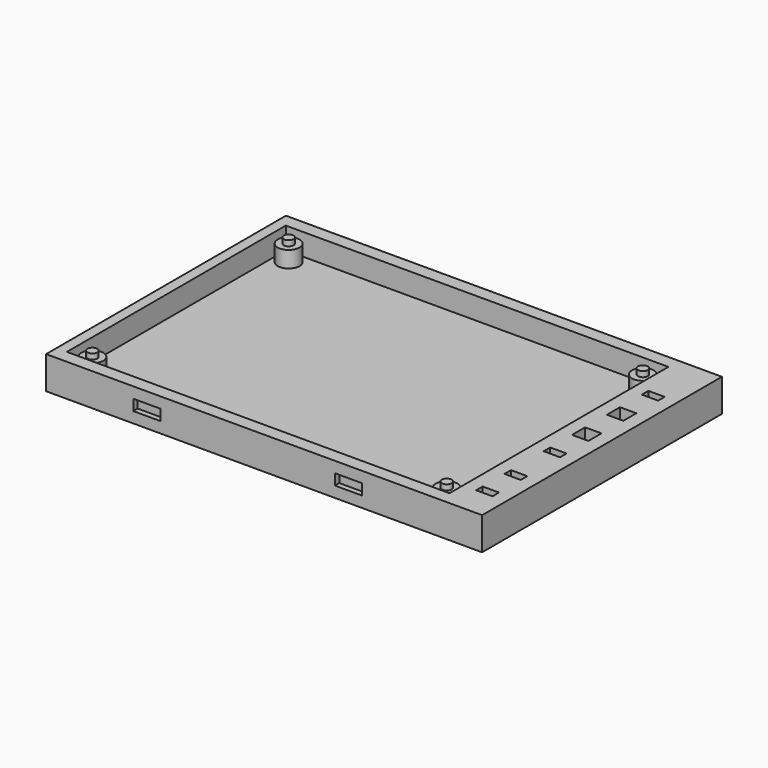
from build123d import *

# Parameters (mm, degrees)
SKETCH_W        = 80
SKETCH_H        = 55
PAD_DEPTH       = 6
SKETCH001_W     = 70.2
SKETCH001_H     = 50.2
POCKET_DEPTH    = 4
SKETCH002_R     = 2
PAD001_DEPTH    = 3
SKETCH003_R     = 0.9
PAD002_DEPTH    = 1
SKETCH004_W     = 3
SKETCH004_H     = 1.5
SKETCH004_H_2   = 3
POCKET001_DEPTH = 6
SKETCH005_W     = 3
SKETCH005_H     = 5
SKETCH005_H_2   = 21
POCKET002_DEPTH = 3
SKETCH006_W     = 5
SKETCH006_H     = 2
POCKET003_DEPTH = 1
SKETCH007_W     = 5
SKETCH007_H     = 2
POCKET004_DEPTH = 1


with BuildPart() as part:
    # Sketch → Pad (new body)
    with BuildSketch(Plane.XY):
        with Locations((3, 0)):
            Rectangle(SKETCH_W, SKETCH_H)
    extrude(amount=PAD_DEPTH)

    # Sketch001 (on Face6 of Pad) → Pocket (cut)
    with BuildSketch(Plane.XY.offset(6)):
        Rectangle(SKETCH001_W, SKETCH001_H)
    extrude(amount=-POCKET_DEPTH, mode=Mode.SUBTRACT)

    # Sketch002 (on Face11 of Pocket) → Pad001 (join)
    with BuildSketch(Plane.XY.offset(2)):
        with Locations((-32.5, 22.5)):
            Circle(SKETCH002_R)
        with Locations((32.5, 22.5)):
            Circle(SKETCH002_R)
        with Locations((-32.5, -22.5)):
            Circle(SKETCH002_R)
        with Locations((32.5, -22.5)):
            Circle(SKETCH002_R)
    extrude(amount=PAD001_DEPTH)

    # Sketch003 (on Face19 of Pad001) → Pad002 (join)
    with BuildSketch(Plane.XY.offset(5)):
        with Locations((-32.5, 22.5)):
            Circle(SKETCH003_R)
        with Locations((32.5, 22.5)):
            Circle(SKETCH003_R)
        with Locations((-32.5, -22.5)):
            Circle(SKETCH003_R)
        with Locations((32.5, -22.5)):
            Circle(SKETCH003_R)
    extrude(amount=PAD002_DEPTH)

    # Sketch004 (on Face5 of Pad002) → Pocket001 (cut)
    with BuildSketch(Plane.XY.offset(6)):
        with Locations((39, 16.75)):
            Rectangle(SKETCH004_W, SKETCH004_H)
        with Locations((39, 9.5)):
            Rectangle(SKETCH004_W, SKETCH004_H_2)
        with Locations((39, 1.5)):
            Rectangle(SKETCH004_W, SKETCH004_H_2)
        with Locations((39, -5.75)):
            Rectangle(SKETCH004_W, SKETCH004_H)
        with Locations((39, -14.75)):
            Rectangle(SKETCH004_W, SKETCH004_H)
        with Locations((39, -21.25)):
            Rectangle(SKETCH004_W, SKETCH004_H)
    extrude(amount=-POCKET001_DEPTH, mode=Mode.SUBTRACT)

    # Sketch005 (on Face4 of Pocket001) → Pocket002 (cut)
    with BuildSketch(Plane(origin=(0, 0, 0), x_dir=(1, 0, 0), z_dir=(0, 0, -1))):
        with Locations((39, 18)):
            Rectangle(SKETCH005_W, SKETCH005_H)
        with Locations((39, -5.5)):
            Rectangle(SKETCH005_W, SKETCH005_H_2)
    extrude(amount=-POCKET002_DEPTH, mode=Mode.SUBTRACT)

    # Sketch006 (on Face6 of Pocket002) → Pocket003 (cut)
    with BuildSketch(Plane.XZ.offset(27.5)):
        with Locations((-18.5, 3)):
            Rectangle(SKETCH006_W, SKETCH006_H)
        with Locations((18.5, 3)):
            Rectangle(SKETCH006_W, SKETCH006_H)
    extrude(amount=-POCKET003_DEPTH, mode=Mode.SUBTRACT)

    # Sketch007 (on Face1 of Pocket003) → Pocket004 (cut)
    with BuildSketch(Plane(origin=(0, 27.5, 0), x_dir=(-1, 0, 0), z_dir=(0, 1, 0))):
        with Locations((-18.5, 3)):
            Rectangle(SKETCH007_W, SKETCH007_H)
        with Locations((18.5, 3)):
            Rectangle(SKETCH007_W, SKETCH007_H)
    extrude(amount=-POCKET004_DEPTH, mode=Mode.SUBTRACT)


solid = part.part
